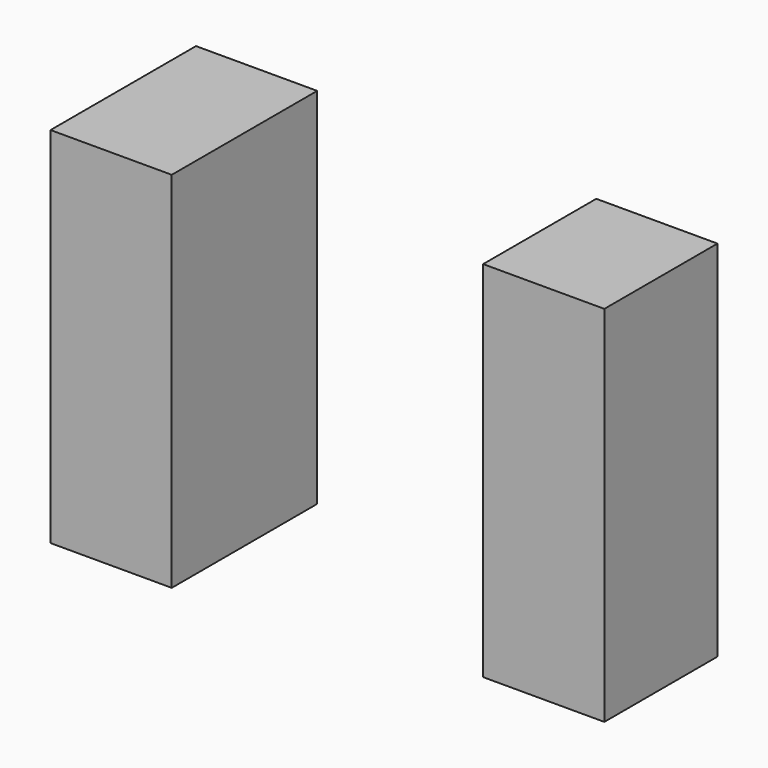
from build123d import *

# Parameters (mm, degrees)
F0_W     = 76.2
F0_H     = 114.3
F1_DEPTH = 114.3
F2_W     = 76.2
F2_H     = 88.9
F3_DEPTH = 114.3


with BuildPart() as f1:
    # F0 (on Top) → F1 (new body, symmetric)
    with BuildSketch(Plane.XY):
        Rectangle(F0_W, F0_H)
    extrude(amount=F1_DEPTH, both=True)


with BuildPart() as f3:
    # F2 (on Top) → F3 (new body, symmetric)
    with BuildSketch(Plane.XY):
        with Locations((254.850566, 8.677461)):
            Rectangle(F2_W, F2_H)
    extrude(amount=F3_DEPTH, both=True)


solid = Compound([f1.part, f3.part])
